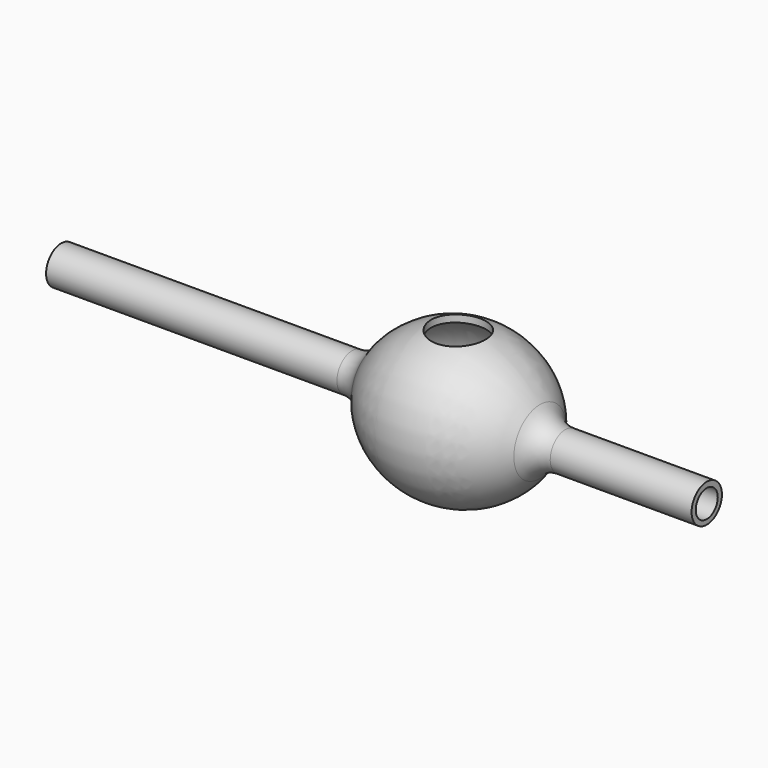
from build123d import *

# Parameters (mm, degrees)
F3_R     = 2.8468654953
F4_DEPTH = 133.5461065173
F5_R     = 5.6267762556
F6_DEPTH = 35.052


with BuildPart() as f1:
    # F0 (on Front) → F1 (revolve)
    with BuildSketch(Plane.XZ):
        with BuildLine():
            Line((-3.6975557381, 9.2503800988), (-63.8671591878, 9.2503800988))
            Line((-63.8671591878, 9.2503800988), (-63.8671591878, 5.3283213638))
            Line((-63.8671591878, 5.3283213638), (-4.4152569437, 5.3283213638))
            ThreePointArc((-4.4152569437, 5.3283213638), (-1.0384074547, 6.3006464453), (1.3043017336, 8.9198528508))
            ThreePointArc((1.3043017336, 8.9198528508), (18.3668266982, 19.6340703482), (35.4293516628, 8.9198528508))
            ThreePointArc((35.4293516628, 8.9198528508), (37.772060851, 6.3006464453), (41.14891034, 5.3283213638))
            Line((41.14891034, 5.3283213638), (69.6789473295, 5.3283213638))
            Line((69.6789473295, 5.3283213638), (69.6789473295, 9.2503800988))
            Line((69.6789473295, 9.2503800988), (40.4312091344, 9.2503800988))
            ThreePointArc((40.4312091344, 9.2503800988), (37.4422386518, 9.9978310848), (35.1569245265, 12.0642209007))
            ThreePointArc((35.1569245265, 12.0642209007), (18.3668266982, 21.02176981), (1.5767288699, 12.0642209007))
            ThreePointArc((1.5767288699, 12.0642209007), (-0.7085852554, 9.9978310848), (-3.6975557381, 9.2503800988))
        make_face()
    revolve(axis=Axis((-34.1412080657, 0, 5.3283213638), (1, 0, 0)))

    # F3 (on face) → F4 (cut, through all)
    with BuildSketch(Plane.YZ.offset(69.6789473295)):
        with Locations((0, 5.2630640566)):
            Circle(F3_R)
    extrude(amount=-F4_DEPTH, mode=Mode.SUBTRACT)

    # F5 (on Top) → F6 (cut)
    with BuildSketch(Plane.XY):
        with Locations((18.277015537, 0)):
            Circle(F5_R)
    extrude(amount=F6_DEPTH, mode=Mode.SUBTRACT)


solid = f1.part
